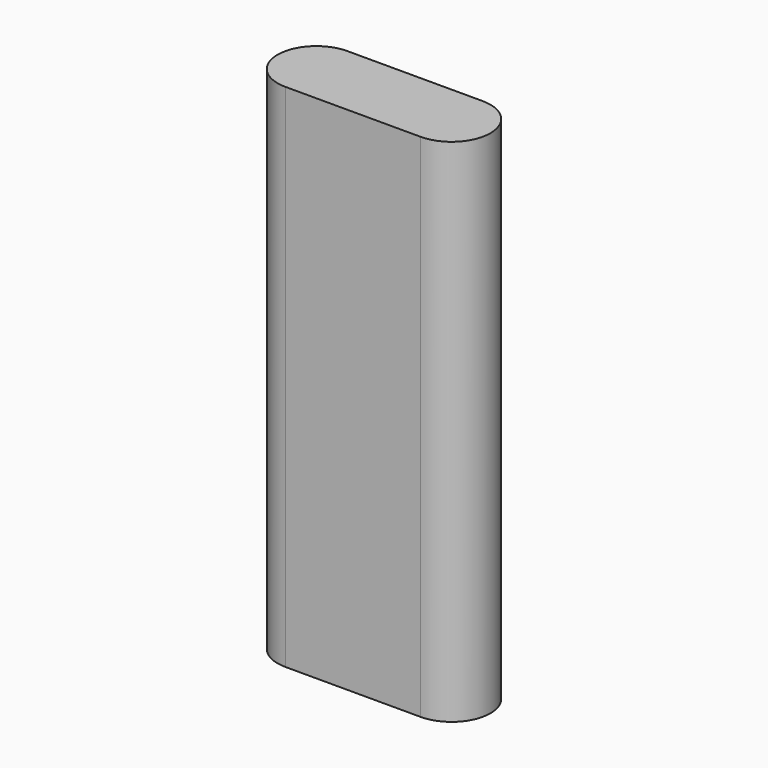
from build123d import *

# Parameters (mm, degrees)
F0_W     = 38.4
F0_H     = 22
F1_DEPTH = 72.5


with BuildPart() as f1:
    # F0 (on Top) → F1 (new body, symmetric)
    with BuildSketch(Plane.XY):
        Rectangle(F0_W, F0_H)
        with BuildLine():
            Line((-19.2, -11), (-19.2, 11))
            ThreePointArc((-19.2, 11), (-30.2, 0), (-19.2, -11))
        make_face()
        with BuildLine():
            ThreePointArc((19.2, -11), (30.2, 0), (19.2, 11))
            Line((19.2, 11), (19.2, -11))
        make_face()
    extrude(amount=F1_DEPTH, both=True)


solid = f1.part
